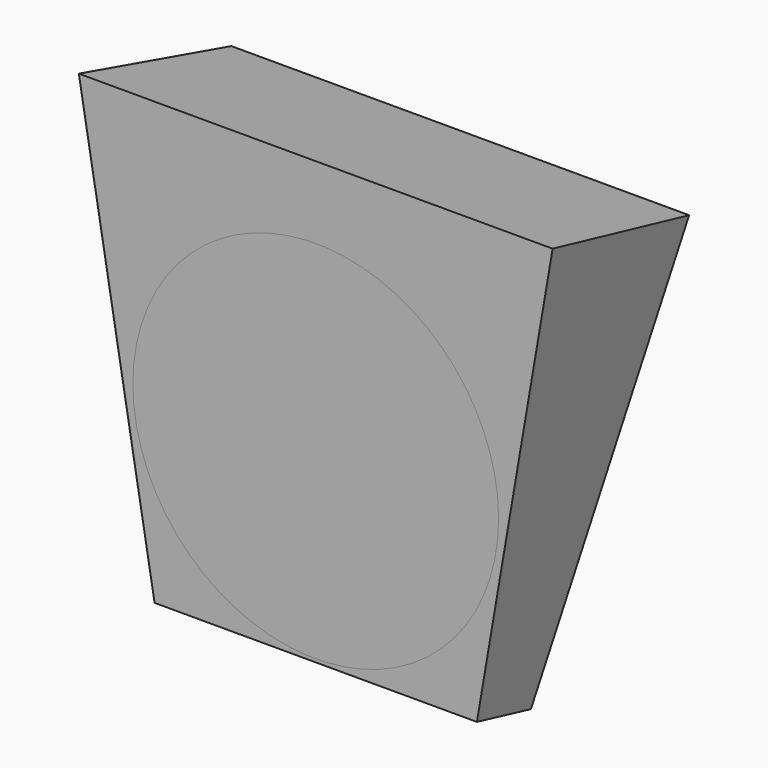
from build123d import *

# Parameters (mm, degrees)
F1_DEPTH = 180.975
F4_DEPTH = 152.4
F5_R     = 139.7
F6_DEPTH = 50.8


with BuildPart() as f1:
    # F0 (on Right) → F1 (new body, symmetric)
    with BuildSketch(Plane.YZ):
        Polygon((96.7012, 199.12078), (-41.296887, 234.681059), (-41.296887, -100.428121), (-41.296887, -102.413474), (13.369194, -116.831578), (14.065055, -114.193229), align=None)
    extrude(amount=F1_DEPTH, both=True)


with BuildPart() as f1_1:
    # F2: moved
    add(f1.part.moved(Location((0, 41.296895, -26.535126))))

    # F3 (on face) → F4 (cut, symmetric)
    with BuildSketch(Plane.XZ.offset(-8e-06)):
        Polygon((180.975, 208.145933), (120.65, -143.366704), (410.697224, -143.366704), align=None)
        Polygon((-410.697224, -143.366704), (-120.65, -143.366704), (-180.975, 208.145933), align=None)
    extrude(amount=F4_DEPTH, both=True, mode=Mode.SUBTRACT)


with BuildPart() as f6:
    # F5 (on Front) → F6 (new body)
    with BuildSketch(Plane.XZ):
        with Locations((0, 13.128696)):
            Circle(F5_R)
    extrude(amount=-F6_DEPTH)


solid = Compound([f1_1.part, f6.part])
